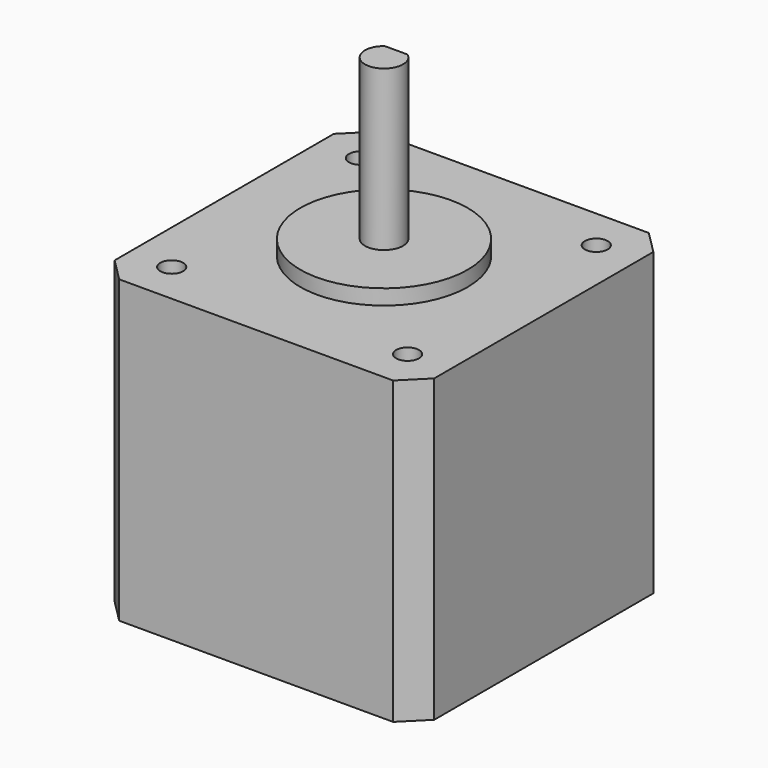
from build123d import *

# Parameters (mm, degrees)
F0_W     = 42
F0_H     = 42
F1_DEPTH = 39.5
F2_R     = 1.5
F3_DEPTH = 10
F2_R_2   = 11
F4_DEPTH = 2
F5_R     = 2.5
F6_DEPTH = 21
F8_DEPTH = 15
F9_SIZE  = 3


with BuildPart() as f1:
    # F0 (on Top) → F1 (new body)
    with BuildSketch(Plane.XY):
        Rectangle(F0_W, F0_H)
    extrude(amount=F1_DEPTH)

    # F2 (on face) → F3 (cut)
    with BuildSketch(Plane.XY.offset(39.5)):
        with Locations((-15.5, -15.5)):
            Circle(F2_R)
        with Locations((-15.5, 15.5)):
            Circle(F2_R)
        with Locations((15.5, 15.5)):
            Circle(F2_R)
        with Locations((15.5, -15.5)):
            Circle(F2_R)
    extrude(amount=-F3_DEPTH, mode=Mode.SUBTRACT)

    # F2 (on face) → F4 (join)
    with BuildSketch(Plane.XY.offset(39.5)):
        Circle(F2_R_2)
    extrude(amount=F4_DEPTH)

    # F5 (on face) → F6 (join)
    with BuildSketch(Plane.XY.offset(41.5)):
        Circle(F5_R)
    extrude(amount=F6_DEPTH)

    # F7 (on face) → F8 (cut)
    with BuildSketch(Plane.XY.offset(62.5)):
        with BuildLine():
            ThreePointArc((1.5, 2), (0, 2.5), (-1.5, 2))
            Line((-1.5, 2), (1.5, 2))
        make_face()
    extrude(amount=-F8_DEPTH, mode=Mode.SUBTRACT)

    # F9
    f9_edges = [f1.edges().sort_by_distance(p)[0] for p in [
        (21, -21, 19.75),
        (21, 21, 19.75),
        (-21, -21, 19.75),
        (-21, 21, 19.75),
    ]]
    chamfer(f9_edges, length=F9_SIZE)


solid = f1.part
